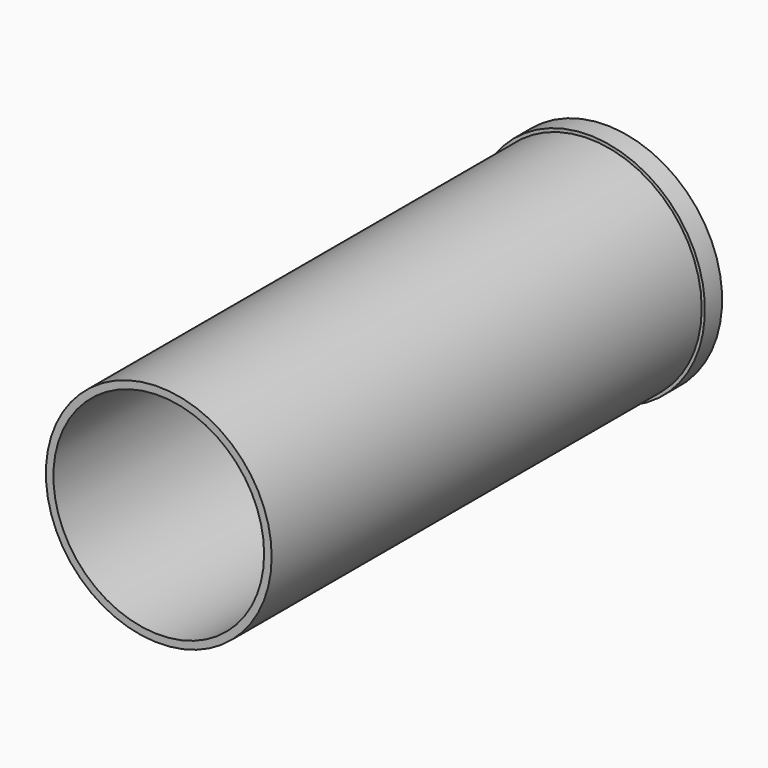
from build123d import *

# Parameters (mm, degrees)
F0_R     = 52.5
F0_R_2   = 49
F1_DEPTH = 250
F2_R     = 54
F3_DEPTH = 10


with BuildPart() as f1:
    # F0 (on Front) → F1 (new body)
    with BuildSketch(Plane.XZ):
        with Locations((-34.701571, 40.825378)):
            Circle(F0_R)
        with Locations((-34.701571, 40.825378)):
            Circle(F0_R_2, mode=Mode.SUBTRACT)
    extrude(amount=F1_DEPTH)

    # F2 (on face) → F3 (join)
    with BuildSketch(Plane(origin=(0, 0, 0), x_dir=(-1, 0, 0), z_dir=(0, 1, 0))):
        with Locations((34.701571, 40.825378)):
            Circle(F2_R)
    extrude(amount=F3_DEPTH)


solid = f1.part
